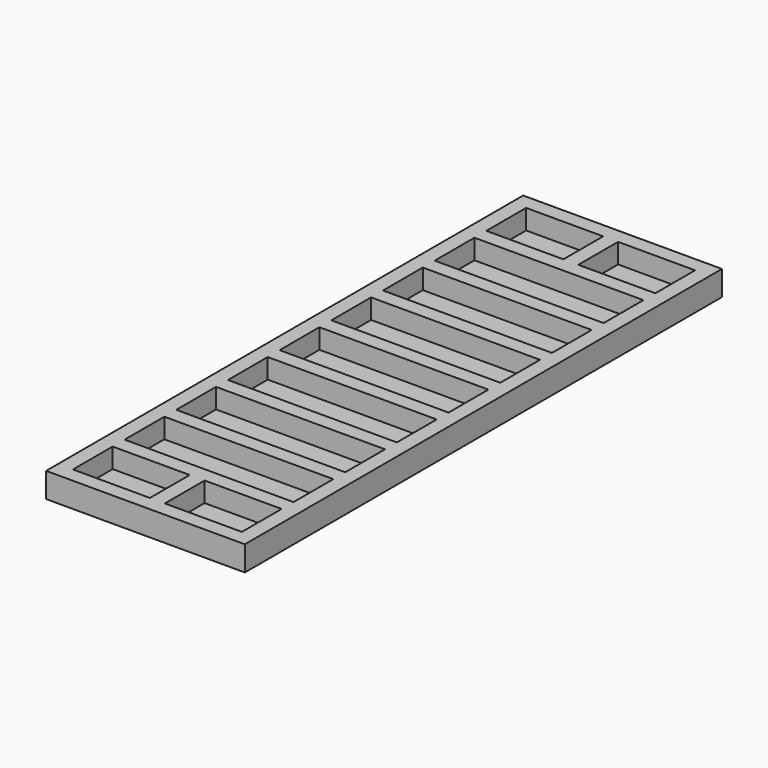
from build123d import *

# Parameters (mm, degrees)
F0_W     = 20
F0_H     = 60
F0_W_2   = 7.75
F0_H_2   = 5
F0_W_3   = 17
F1_DEPTH = 2.5
F2_W     = 19
F2_H     = 59
F3_DEPTH = 0.5
F4_W     = 19
F4_H     = 59
F5_DEPTH = 0.5


with BuildPart() as f1:
    # F0 (on Top) → F1 (new body)
    with BuildSketch(Plane.XY):
        with Locations((10, 30)):
            Rectangle(F0_W, F0_H)
        with Locations((5.375, 4)):
            Rectangle(F0_W_2, F0_H_2, mode=Mode.SUBTRACT)
        with Locations((14.625, 4)):
            Rectangle(F0_W_2, F0_H_2, mode=Mode.SUBTRACT)
        with Locations((10, 10.5)):
            Rectangle(F0_W_3, F0_H_2, mode=Mode.SUBTRACT)
        with Locations((10, 17)):
            Rectangle(F0_W_3, F0_H_2, mode=Mode.SUBTRACT)
        with Locations((10, 23.5)):
            Rectangle(F0_W_3, F0_H_2, mode=Mode.SUBTRACT)
        with Locations((5.375, 56)):
            Rectangle(F0_W_2, F0_H_2, mode=Mode.SUBTRACT)
        with Locations((10, 30)):
            Rectangle(F0_W_3, F0_H_2, mode=Mode.SUBTRACT)
        with Locations((10, 36.5)):
            Rectangle(F0_W_3, F0_H_2, mode=Mode.SUBTRACT)
        with Locations((10, 43)):
            Rectangle(F0_W_3, F0_H_2, mode=Mode.SUBTRACT)
        with Locations((10, 49.5)):
            Rectangle(F0_W_3, F0_H_2, mode=Mode.SUBTRACT)
        with Locations((14.625, 56)):
            Rectangle(F0_W_2, F0_H_2, mode=Mode.SUBTRACT)
    extrude(amount=F1_DEPTH)

    # F2 (on face) → F3 (cut)
    with BuildSketch(Plane(origin=(0, 0, 0), x_dir=(1, 0, 0), z_dir=(0, 0, -1))):
        with Locations((10, -30)):
            Rectangle(F2_W, F2_H)
    extrude(amount=-F3_DEPTH, mode=Mode.SUBTRACT)


with BuildPart() as f5:
    # F4 (on face) → F5 (new body)
    with BuildSketch(Plane(origin=(0, 0, 0.5), x_dir=(1, 0, 0), z_dir=(0, 0, -1))):
        with Locations((10, -30)):
            Rectangle(F4_W, F4_H)
    extrude(amount=F5_DEPTH)


solid = Compound([f1.part, f5.part])
